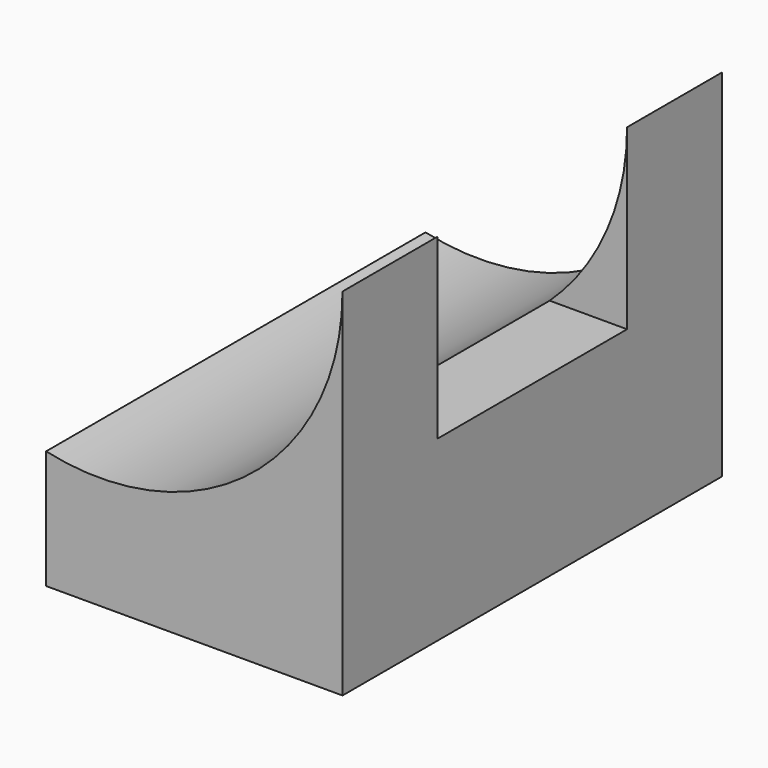
from build123d import *

# Parameters (mm, degrees)
F1_DEPTH = 50.8
F2_W     = 25.4
F2_H     = 19.05
F3_DEPTH = 25.4


with BuildPart() as f1:
    # F0 (on Front) → F1 (new body)
    with BuildSketch(Plane.XZ):
        with BuildLine():
            Line((0, 12.7), (0, 0))
            Line((0, 0), (31.75, 0))
            Line((31.75, 0), (31.75, 38.1))
            ThreePointArc((31.75, 38.1), (21.978936, 17.770081), (0, 12.7))
        make_face()
    extrude(amount=F1_DEPTH)

    # F2 (on face) → F3 (cut)
    with BuildSketch(Plane.YZ.offset(31.75)):
        with Locations((-25.4, 28.575)):
            Rectangle(F2_W, F2_H)
    extrude(amount=-F3_DEPTH, mode=Mode.SUBTRACT)


solid = f1.part
